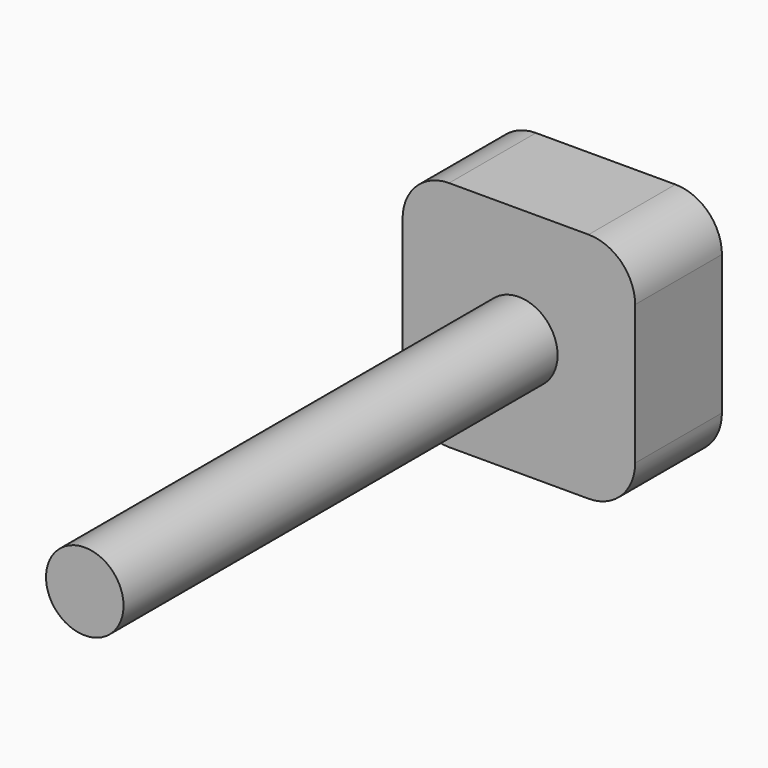
from build123d import *

# Parameters (mm, degrees)
SKETCH140_R  = 2.5
PAD071_DEPTH = 42
SKETCH141_W  = 15
SKETCH141_H  = 15
PAD072_DEPTH = 7
FILLET001_R  = 3


with BuildPart() as part:
    # Sketch140 → Pad071 (new body)
    with BuildSketch(Plane.XZ):
        Circle(SKETCH140_R)
    extrude(amount=-PAD071_DEPTH)

    # Sketch141 (on Face3 of Pad071) → Pad072 (join)
    with BuildSketch(Plane(origin=(0, 42, 0), x_dir=(1, 0, 0), z_dir=(0, 1, 0))):
        Rectangle(SKETCH141_W, SKETCH141_H)
    extrude(amount=-PAD072_DEPTH)

    # Fillet001
    fillet001_edges = [part.edges().sort_by_distance(p)[0] for p in [
        (7.5, 38.5, -7.5),
        (7.5, 38.5, 7.5),
        (-7.5, 38.5, 7.5),
        (-7.5, 38.5, -7.5),
    ]]
    fillet(fillet001_edges, radius=FILLET001_R)


with BuildPart() as part_1:
    # Body041 placement: moved
    add(part.part.moved(Location((0, 17.75, 150))))


solid = part_1.part
